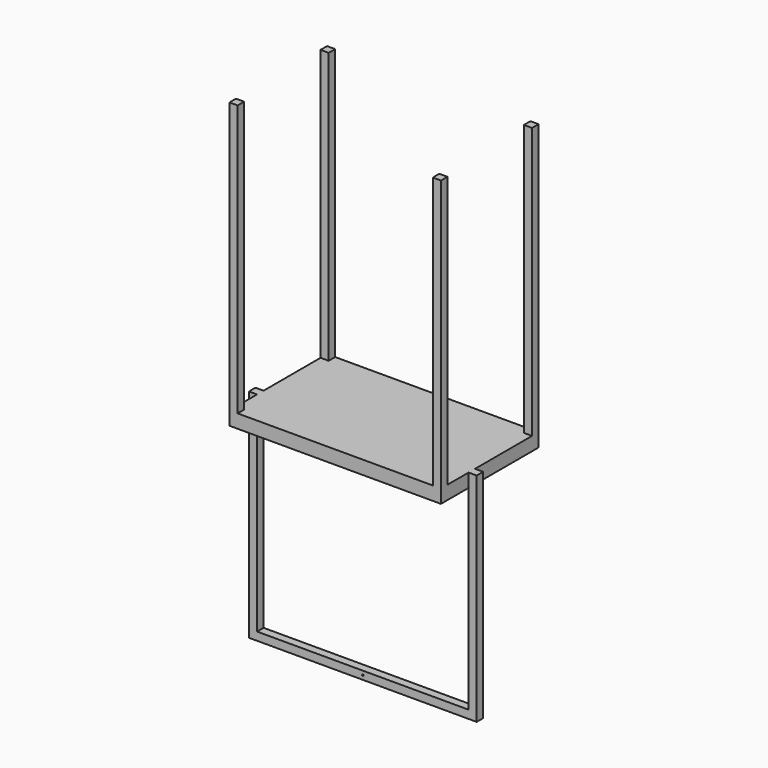
from build123d import *

# Parameters (mm, degrees)
F0_W      = 19.812
F0_H      = 11.43
F1_DEPTH  = 1.27
F2_T      = -0.254
F3_W      = 0.762
F3_H      = 0.762
F4_DEPTH  = 25.4
F5_W      = 0.762
F5_H      = 1.27
F6_DEPTH  = 0.762
F7_W      = 0.762
F7_H      = 0.762
F8_DEPTH  = 19.05
F9_W      = 0.762
F9_H      = 0.762
F10_DEPTH = 20.574
F11_W     = 0.762
F11_H     = 0.762
F12_DEPTH = 19.558
F14_D     = 0.127


with BuildPart() as f1:
    # F0 (on Top) → F1 (new body)
    with BuildSketch(Plane.XY):
        with Locations((9.906, 5.715)):
            Rectangle(F0_W, F0_H)
    extrude(amount=F1_DEPTH)

    # F2
    f2_openings = [f1.faces().sort_by_distance(p)[0] for p in [
        (9.906, 5.715, 0),
    ]]
    offset(amount=F2_T, openings=f2_openings)

    # F3 (on face) → F4 (join)
    with BuildSketch(Plane.XY.offset(1.27)):
        with Locations((19.431, 0.381)):
            Rectangle(F3_W, F3_H)
        with Locations((19.431, 11.049)):
            Rectangle(F3_W, F3_H)
        with Locations((0.381, 11.049)):
            Rectangle(F3_W, F3_H)
        with Locations((0.381, 0.381)):
            Rectangle(F3_W, F3_H)
    extrude(amount=F4_DEPTH)

    # F5 (on face) → F6 (join)
    with BuildSketch(Plane.YZ.offset(19.812)):
        with Locations((3.614489, 0.635)):
            Rectangle(F5_W, F5_H)
    extrude(amount=F6_DEPTH)

    # F7 (on face) → F8 (join)
    with BuildSketch(Plane(origin=(0, 0, 0), x_dir=(1, 0, 0), z_dir=(0, 0, -1))):
        with Locations((20.193, -3.614489)):
            Rectangle(F7_W, F7_H)
    extrude(amount=F8_DEPTH)

    # F9 (on face) → F10 (join)
    with BuildSketch(Plane(origin=(19.812, 0, 0), x_dir=(0, -1, 0), z_dir=(-1, 0, 0))):
        with Locations((-3.614489, -18.669)):
            Rectangle(F9_W, F9_H)
    extrude(amount=F10_DEPTH)

    # F11 (on face) → F12 (join)
    with BuildSketch(Plane.XY.offset(-18.288)):
        with Locations((-0.381, 3.614489)):
            Rectangle(F11_W, F11_H)
    extrude(amount=F12_DEPTH)

    # F14 (through all)
    with Locations(Plane.XZ.offset(-3.233489)):
        with Locations((9.906, -18.653618)):
            Hole(F14_D / 2)


solid = f1.part
